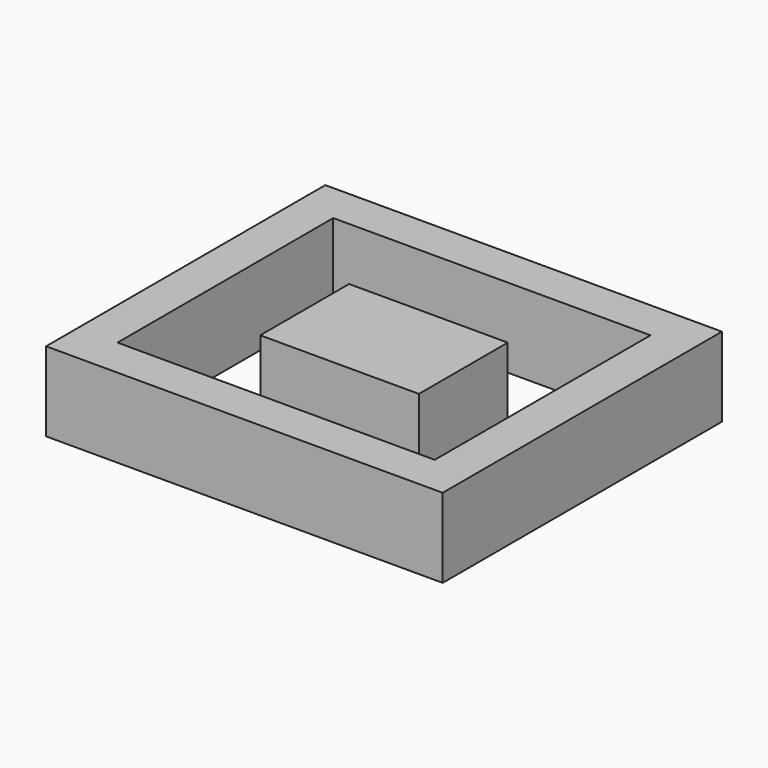
from build123d import *

# Parameters (mm, degrees)
F0_W     = 50.8
F0_H     = 35.56
F1_DEPTH = 25.4
F0_W_2   = 127
F0_H_2   = 111.76
F0_W_3   = 101.6
F0_H_3   = 86.36


with BuildPart() as f1:
    # F0 (on Top) → F1 (new body)
    with BuildSketch(Plane.XY):
        Rectangle(F0_W, F0_H)
    extrude(amount=F1_DEPTH)


with BuildPart() as f1b:
    # F0 (on Top) → F1, piece 2 (new body)
    with BuildSketch(Plane.XY):
        Rectangle(F0_W_2, F0_H_2)
        Rectangle(F0_W_3, F0_H_3, mode=Mode.SUBTRACT)
    extrude(amount=F1_DEPTH)


solid = Compound([f1.part, f1b.part])
